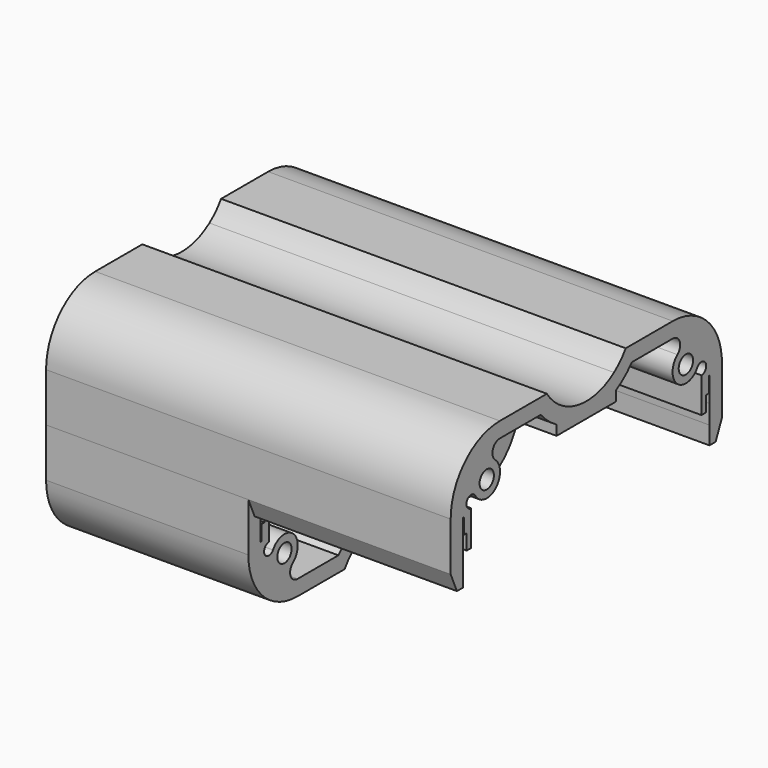
from build123d import *

# Parameters (mm, degrees)
F0_R     = 1.75
F0_W     = 3.0557280899
F0_H     = 4.8
F0_W_2   = 1.1
F0_H_2   = 1.0000000006
F1_DEPTH = 39.5
F2_DEPTH = 39.5
F3_DEPTH = 39.5


with BuildPart() as f1:
    # F0 (on Right) → F1 (new body, symmetric)
    with BuildSketch(Plane.YZ):
        with BuildLine():
            Line((-9.6208107766, 8.2), (-13.0598621739, 8.2))
            ThreePointArc((-13.0598621739, 8.2), (-12.184983894, 6.6402183553), (-11.1247471881, 5.2))
            Line((-11.1247471881, 5.2), (-6.7646138101, 5.2))
            ThreePointArc((-6.7646138101, 5.2), (-8.3288975694, 6.5703426759), (-9.6208107766, 8.2))
        make_face()
        with BuildLine():
            Line((-6.7646138101, 5.2), (-11.1247471881, 5.2))
            ThreePointArc((-11.1247471881, 5.2), (-9.3306187205, 3.400921016), (-7.25, 1.9426316451))
            Line((-7.25, 1.9426316451), (7.25, 1.9426316451))
            ThreePointArc((7.25, 1.9426316451), (9.3306187205, 3.400921016), (11.1247471881, 5.2))
            Line((11.1247471881, 5.2), (6.7646138101, 5.2))
            ThreePointArc((6.7646138101, 5.2), (0, 3), (-6.7646138101, 5.2))
        make_face()
        with BuildLine():
            ThreePointArc((0, 0), (-3.752876154, 0.4940755188), (-7.25, 1.9426316451))
            Line((-7.25, 1.9426316451), (-7.25, 0))
            Line((-7.25, 0), (0, 0))
        make_face()
        with BuildLine():
            Line((7.25, 1.9426316451), (-7.25, 1.9426316451))
            ThreePointArc((-7.25, 1.9426316451), (-3.752876154, 0.4940755188), (0, 0))
            ThreePointArc((0, 0), (3.752876154, 0.4940755188), (7.25, 1.9426316451))
        make_face()
        with BuildLine():
            ThreePointArc((7.25, 1.9426316451), (3.752876154, 0.4940755188), (0, 0))
            Line((0, 0), (7.25, 0))
            Line((7.25, 0), (7.25, 1.9426316451))
        make_face()
        with BuildLine():
            Line((13.0598621739, 8.2), (9.6208107766, 8.2))
            ThreePointArc((9.6208107766, 8.2), (8.3288975694, 6.5703426759), (6.7646138101, 5.2))
            Line((6.7646138101, 5.2), (11.1247471881, 5.2))
            ThreePointArc((11.1247471881, 5.2), (12.184983894, 6.6402183553), (13.0598621739, 8.2))
        make_face()
        with BuildLine():
            Line((21.1, 8.2), (13.0598621739, 8.2))
            ThreePointArc((13.0598621739, 8.2), (12.184983894, 6.6402183553), (11.1247471881, 5.2))
            Line((11.1247471881, 5.2), (21.1, 5.2))
            ThreePointArc((21.1, 5.2), (27.1000000002, 2.9082039323), (30.0442719101, -2.8000000006))
            Line((30.0442719101, -2.8000000006), (33.0582607432, -2.8000000006))
            ThreePointArc((33.0582607432, -2.8000000006), (29.2240384049, 5.0317608661), (21.1, 8.2))
        make_face()
        with BuildLine():
            ThreePointArc((27.55, -0.55), (27.4345869955, -1.4084080426), (27.0965450045, -2.2058490383))
            ThreePointArc((27.0965450045, -2.2058490383), (28.4080135636, -1.6752489443), (29.2661634937, -2.8000000006))
            Line((29.2661634937, -2.8000000006), (30.0442719101, -2.8000000006))
            ThreePointArc((30.0442719101, -2.8000000006), (27.1000000002, 2.9082039323), (21.1, 5.2))
            ThreePointArc((21.1, 5.2), (22.3861486676, 4.6672597787), (22.9188888889, 3.3811111111))
            ThreePointArc((22.9188888889, 3.3811111111), (22.7427003625, 2.6001550885), (22.2482681457, 1.9704952684))
            ThreePointArc((22.2482681457, 1.9704952684), (25.6954159727, 2.3851855586), (27.55, -0.55))
        make_face()
        with BuildLine():
            ThreePointArc((22.2482681457, 1.9704952684), (22.1788801073, -3.0123871346), (27.0965450045, -2.2058490383))
            ThreePointArc((27.0965450045, -2.2058490383), (27.4345869955, -1.4084080426), (27.55, -0.55))
            ThreePointArc((27.55, -0.55), (25.6954159727, 2.3851855586), (22.2482681457, 1.9704952684))
        make_face()
        with Locations((24.3, -0.55)):
            Circle(F0_R, mode=Mode.SUBTRACT)
        with BuildLine():
            Line((28.1, -3.9661634942), (28.1, -9.8))
            Line((28.1, -9.8), (29.2, -9.8))
            Line((29.2, -9.8), (29.2, -7.8000000006))
            Line((29.2, -7.8000000006), (29.9, -7.8000000006))
            Line((29.9, -7.8000000006), (29.9, -4.8000000006))
            Line((29.9, -4.8000000006), (30.0442719101, -4.8000000006))
            Line((30.0442719101, -4.8000000006), (30.0442719101, -2.8000000006))
            Line((30.0442719101, -2.8000000006), (29.2661634937, -2.8000000006))
            ThreePointArc((29.2661634937, -2.8000000006), (28.9246021143, -3.6246021149), (28.1, -3.9661634942))
        make_face()
        with BuildLine():
            Line((33.0582607432, -2.8000000006), (30.0442719101, -2.8000000006))
            Line((30.0442719101, -2.8000000006), (30.0442719101, -4.8000000006))
            Line((30.0442719101, -4.8000000006), (33.1, -4.8000000006))
            Line((33.1, -4.8000000006), (33.1, -3.8))
            ThreePointArc((33.1, -3.8), (33.0895606449, -3.2995646484), (33.0582607432, -2.8000000006))
        make_face()
        with Locations((31.572135955, -7.2000000006)):
            Rectangle(F0_W, F0_H)
        Polygon((30.0442719101, -9.6000000006), (30.0442719101, -9.8), (31.572135955, -9.8), (33.1, -9.8), (33.1, -9.6000000006), align=None)
        with BuildLine():
            Line((-33.1, -3.8), (-33.1, -4.8000000006))
            Line((-33.1, -4.8000000006), (-30.1, -4.8000000006))
            Line((-30.1, -4.8000000006), (-30.1, -3.8))
            ThreePointArc((-30.1, -3.8), (-30.0860571774, -3.2992241972), (-30.0442719101, -2.8000000006))
            ThreePointArc((-30.0442719101, -2.8000000006), (-27.1000000002, 2.9082039323), (-21.1, 5.2))
            Line((-21.1, 5.2), (-11.1247471881, 5.2))
            ThreePointArc((-11.1247471881, 5.2), (-12.184983894, 6.6402183553), (-13.0598621739, 8.2))
            Line((-13.0598621739, 8.2), (-21.1, 8.2))
            ThreePointArc((-21.1, 8.2), (-29.5852813742, 4.6852813742), (-33.1, -3.8))
        make_face()
        with BuildLine():
            ThreePointArc((-21.1, 5.2), (-27.1000000002, 2.9082039323), (-30.0442719101, -2.8000000006))
            Line((-30.0442719101, -2.8000000006), (-29.2661634937, -2.8000000006))
            ThreePointArc((-29.2661634937, -2.8000000006), (-28.4080135888, -1.6752489512), (-27.0965450312, -2.2058489932))
            ThreePointArc((-27.0965450312, -2.2058489932), (-26.4211198756, 1.9123871494), (-22.2482681512, 1.9704952729))
            ThreePointArc((-22.2482681512, 1.9704952729), (-22.813783864, 3.9904563809), (-21.1, 5.2))
        make_face()
        with BuildLine():
            ThreePointArc((-21.05, -0.55), (-21.364814443, 0.8454159759), (-22.2482681512, 1.9704952729))
            ThreePointArc((-22.2482681512, 1.9704952729), (-26.4211198756, 1.9123871494), (-27.0965450312, -2.2058489932))
            ThreePointArc((-27.0965450312, -2.2058489932), (-23.4415919826, -3.6845870024), (-21.05, -0.55))
        make_face()
        with Locations((-24.3, -0.55)):
            Circle(F0_R, mode=Mode.SUBTRACT)
        with Locations((-28.65, -10.3000000003)):
            Rectangle(F0_W_2, F0_H_2)
        Polygon((-31.572135955, -9.8), (-33.1, -13.3), (-30.1, -13.3), (-30.1, -9.8), align=None)
        with BuildLine():
            Line((-30.1, -3.8), (-30.1, -4.8000000006))
            Line((-30.1, -4.8000000006), (-29.9, -4.8000000006))
            Line((-29.9, -4.8000000006), (-29.9, -7.8000000006))
            Line((-29.9, -7.8000000006), (-29.2, -7.8000000006))
            Line((-29.2, -7.8000000006), (-29.2, -9.8))
            Line((-29.2, -9.8), (-28.1, -9.8))
            Line((-28.1, -9.8), (-28.1, -3.9661634942))
            ThreePointArc((-28.1, -3.9661634942), (-28.9246021143, -3.6246021149), (-29.2661634937, -2.8000000006))
            Line((-29.2661634937, -2.8000000006), (-30.0442719101, -2.8000000006))
            ThreePointArc((-30.0442719101, -2.8000000006), (-30.0860571774, -3.2992241972), (-30.1, -3.8))
        make_face()
        Polygon((-33.1, -4.8000000006), (-33.1, -9.8), (-31.572135955, -9.8), (-30.1, -9.8), (-30.1, -4.8000000006), align=None)
        Polygon((-31.572135955, -9.8), (-33.1, -13.3), (-30.1, -13.3), (-30.1, -9.8), align=None)
        Polygon((-33.1, -9.8), (-33.1, -13.3), (-31.572135955, -9.8), align=None)
        Polygon((31.572135955, -9.8), (30.0442719101, -9.8), (30.0442719101, -13.3), (33.1, -13.3), align=None)
        Polygon((33.1, -9.8), (31.572135955, -9.8), (33.1, -13.3), align=None)
        with Locations((28.65, -10.3000000003)):
            Rectangle(F0_W_2, F0_H_2)
    extrude(amount=F1_DEPTH, both=True)

    # F0 (on Right) → F2 (join, through all)
    with BuildSketch(Plane.YZ):
        Polygon((-30.1, -13.3), (-33.1, -13.3), (-31.572135955, -16.8), (-30.1, -16.8), align=None)
        Polygon((30.0442719101, -13.3), (30.0442719101, -16.8), (31.572135955, -16.8), (33.1, -13.3), align=None)
    extrude(amount=F2_DEPTH)


with BuildPart() as f3:
    # F0 (on Right) → F3 (new body, through all)
    with BuildSketch(Plane.YZ):
        Polygon((-30.1, -13.3), (-33.1, -13.3), (-31.572135955, -16.8), (-30.1, -16.8), align=None)
        Polygon((-33.1, -13.3), (-33.1, -16.8), (-31.572135955, -16.8), align=None)
        Polygon((-31.572135955, -16.8), (-33.1, -16.8), (-33.1, -21.7999999994), (-30.1, -21.7999999994), (-30.1, -16.8), align=None)
        Polygon((33.1, -13.3), (31.572135955, -16.8), (33.1, -16.8), align=None)
        Polygon((30.0442719101, -13.3), (30.0442719101, -16.8), (31.572135955, -16.8), (33.1, -13.3), align=None)
        with Locations((31.572135955, -19.3999999994)):
            Rectangle(F0_W, F0_H)
        with BuildLine():
            Line((30.0442719101, -21.7999999994), (30.0442719101, -23.7999999994))
            Line((30.0442719101, -23.7999999994), (33.0582607432, -23.7999999994))
            ThreePointArc((33.0582607432, -23.7999999994), (33.0895606449, -23.3004353516), (33.1, -22.8))
            Line((33.1, -22.8), (33.1, -21.7999999994))
            Line((33.1, -21.7999999994), (30.0442719101, -21.7999999994))
        make_face()
        with BuildLine():
            Line((29.2, -16.8), (28.1, -16.8))
            Line((28.1, -16.8), (28.1, -22.6338365058))
            ThreePointArc((28.1, -22.6338365058), (28.9246021143, -22.9753978851), (29.2661634937, -23.7999999994))
            Line((29.2661634937, -23.7999999994), (30.0442719101, -23.7999999994))
            Line((30.0442719101, -23.7999999994), (30.0442719101, -21.7999999994))
            Line((30.0442719101, -21.7999999994), (29.9, -21.7999999994))
            Line((29.9, -21.7999999994), (29.9, -18.7999999994))
            Line((29.9, -18.7999999994), (29.2, -18.7999999994))
            Line((29.2, -18.7999999994), (29.2, -16.8))
        make_face()
        with BuildLine():
            ThreePointArc((11.1247471881, -31.8), (12.184983894, -33.2402183553), (13.0598621739, -34.8))
            Line((13.0598621739, -34.8), (21.1, -34.8))
            ThreePointArc((21.1, -34.8), (29.2240384049, -31.6317608661), (33.0582607432, -23.7999999994))
            Line((33.0582607432, -23.7999999994), (30.0442719101, -23.7999999994))
            ThreePointArc((30.0442719101, -23.7999999994), (27.1000000002, -29.5082039323), (21.1, -31.8))
            Line((21.1, -31.8), (11.1247471881, -31.8))
        make_face()
        with BuildLine():
            Line((30.0442719101, -23.7999999994), (29.2661634937, -23.7999999994))
            ThreePointArc((29.2661634937, -23.7999999994), (28.4080135131, -24.9247510695), (27.0965449512, -24.3941508716))
            ThreePointArc((27.0965449512, -24.3941508716), (27.4345869817, -25.1915919069), (27.55, -26.05))
            ThreePointArc((27.55, -26.05), (25.695416047, -28.9851855232), (22.2482682734, -28.5704953724))
            ThreePointArc((22.2482682734, -28.5704953724), (22.7427003978, -29.2001551629), (22.9188888889, -29.9811111111))
            ThreePointArc((22.9188888889, -29.9811111111), (22.3861486676, -31.2672597787), (21.1, -31.8))
            ThreePointArc((21.1, -31.8), (27.1000000002, -29.5082039323), (30.0442719101, -23.7999999994))
        make_face()
        with BuildLine():
            ThreePointArc((27.55, -26.05), (27.4345869817, -25.1915919069), (27.0965449512, -24.3941508716))
            ThreePointArc((27.0965449512, -24.3941508716), (22.1788800052, -23.5876129533), (22.2482682734, -28.5704953724))
            ThreePointArc((22.2482682734, -28.5704953724), (25.695416047, -28.9851855232), (27.55, -26.05))
        make_face()
        with Locations((24.3, -26.05)):
            Circle(F0_R, mode=Mode.SUBTRACT)
        with BuildLine():
            ThreePointArc((6.7646138101, -31.8), (8.3288975694, -33.1703426759), (9.6208107766, -34.8))
            Line((9.6208107766, -34.8), (13.0598621739, -34.8))
            ThreePointArc((13.0598621739, -34.8), (12.184983894, -33.2402183553), (11.1247471881, -31.8))
            Line((11.1247471881, -31.8), (6.7646138101, -31.8))
        make_face()
        with BuildLine():
            ThreePointArc((-7.25, -28.5426316451), (-9.3306187205, -30.000921016), (-11.1247471881, -31.8))
            Line((-11.1247471881, -31.8), (-6.7646138101, -31.8))
            ThreePointArc((-6.7646138101, -31.8), (0, -29.6), (6.7646138101, -31.8))
            Line((6.7646138101, -31.8), (11.1247471881, -31.8))
            ThreePointArc((11.1247471881, -31.8), (9.3306187205, -30.000921016), (7.25, -28.5426316451))
            Line((7.25, -28.5426316451), (-7.25, -28.5426316451))
        make_face()
        with BuildLine():
            ThreePointArc((0, -26.6), (-3.752876154, -27.0940755188), (-7.25, -28.5426316451))
            Line((-7.25, -28.5426316451), (7.25, -28.5426316451))
            ThreePointArc((7.25, -28.5426316451), (3.752876154, -27.0940755188), (0, -26.6))
        make_face()
        with BuildLine():
            Line((-7.25, -26.6), (-7.25, -28.5426316451))
            ThreePointArc((-7.25, -28.5426316451), (-3.752876154, -27.0940755188), (0, -26.6))
            Line((0, -26.6), (-7.25, -26.6))
        make_face()
        with BuildLine():
            ThreePointArc((-11.1247471881, -31.8), (-12.184983894, -33.2402183553), (-13.0598621739, -34.8))
            Line((-13.0598621739, -34.8), (-9.6208107766, -34.8))
            ThreePointArc((-9.6208107766, -34.8), (-8.3288975694, -33.1703426759), (-6.7646138101, -31.8))
            Line((-6.7646138101, -31.8), (-11.1247471881, -31.8))
        make_face()
        with BuildLine():
            Line((-30.1, -21.7999999994), (-33.1, -21.7999999994))
            Line((-33.1, -21.7999999994), (-33.1, -22.8))
            ThreePointArc((-33.1, -22.8), (-29.5852813742, -31.2852813742), (-21.1, -34.8))
            Line((-21.1, -34.8), (-13.0598621739, -34.8))
            ThreePointArc((-13.0598621739, -34.8), (-12.184983894, -33.2402183553), (-11.1247471881, -31.8))
            Line((-11.1247471881, -31.8), (-21.1, -31.8))
            ThreePointArc((-21.1, -31.8), (-27.1000000002, -29.5082039323), (-30.0442719101, -23.7999999994))
            ThreePointArc((-30.0442719101, -23.7999999994), (-30.0860571774, -23.3007758028), (-30.1, -22.8))
            Line((-30.1, -22.8), (-30.1, -21.7999999994))
        make_face()
        with BuildLine():
            Line((-29.2661634937, -23.7999999994), (-30.0442719101, -23.7999999994))
            ThreePointArc((-30.0442719101, -23.7999999994), (-27.1000000002, -29.5082039323), (-21.1, -31.8))
            ThreePointArc((-21.1, -31.8), (-22.8137838244, -30.5904564922), (-22.2482683345, -28.5704954221))
            ThreePointArc((-22.2482683345, -28.5704954221), (-26.4211199433, -28.512387091), (-27.0965450605, -24.3941510562))
            ThreePointArc((-27.0965450605, -24.3941510562), (-28.4080136166, -24.9247510412), (-29.2661634937, -23.7999999994))
        make_face()
        with BuildLine():
            ThreePointArc((-21.05, -26.05), (-23.4415920104, -22.91541299), (-27.0965450605, -24.3941510562))
            ThreePointArc((-27.0965450605, -24.3941510562), (-26.4211199433, -28.512387091), (-22.2482683345, -28.5704954221))
            ThreePointArc((-22.2482683345, -28.5704954221), (-21.3648144937, -27.4454160826), (-21.05, -26.05))
        make_face()
        with Locations((-24.3, -26.05)):
            Circle(F0_R, mode=Mode.SUBTRACT)
        with BuildLine():
            Line((-29.9, -21.7999999994), (-30.1, -21.7999999994))
            Line((-30.1, -21.7999999994), (-30.1, -22.8))
            ThreePointArc((-30.1, -22.8), (-30.0860571774, -23.3007758028), (-30.0442719101, -23.7999999994))
            Line((-30.0442719101, -23.7999999994), (-29.2661634937, -23.7999999994))
            ThreePointArc((-29.2661634937, -23.7999999994), (-28.9246021143, -22.9753978851), (-28.1, -22.6338365058))
            Line((-28.1, -22.6338365058), (-28.1, -16.8))
            Line((-28.1, -16.8), (-29.2, -16.8))
            Line((-29.2, -16.8), (-29.2, -18.7999999994))
            Line((-29.2, -18.7999999994), (-29.9, -18.7999999994))
            Line((-29.9, -18.7999999994), (-29.9, -21.7999999994))
        make_face()
        Polygon((31.572135955, -16.8), (30.0442719101, -16.8), (30.0442719101, -16.9999999994), (33.1, -16.9999999994), (33.1, -16.8), align=None)
    extrude(amount=-F3_DEPTH)


solid = Compound([f1.part, f3.part])
